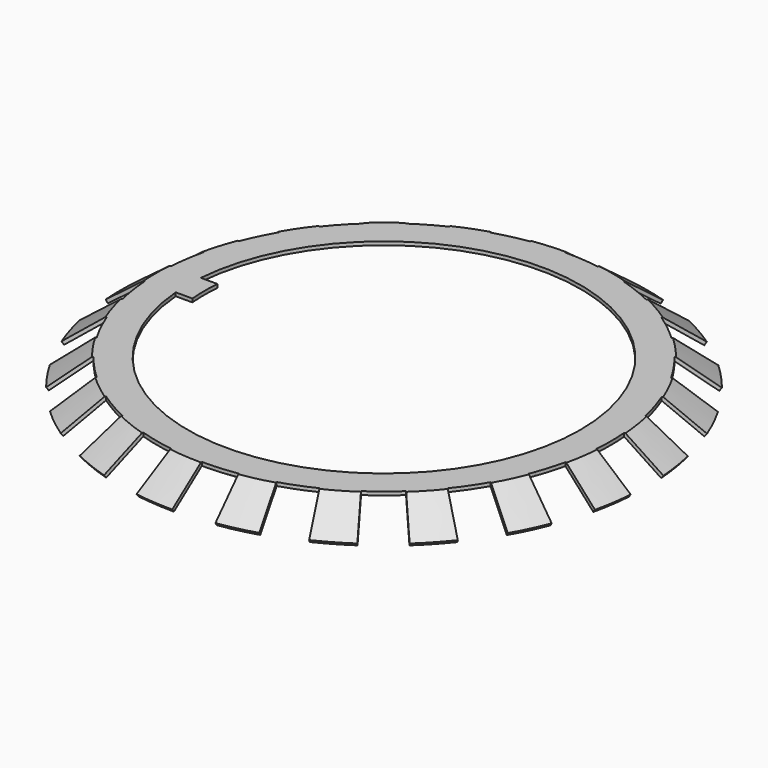
from build123d import *

# Parameters (mm, degrees)
F3_DEPTH = 25
F5_DEPTH = 25


with BuildPart() as f1:
    # F0 (on Front) → F1 (revolve)
    with BuildSketch(Plane.XZ):
        Polygon((-103, 14.996545), (-103, 16.996545), (-130.666475, 16.996545), (-151.202314, 1.600207), (-150.002591, 0), (-130, 14.996545), align=None)
    revolve(axis=Axis((0, 0, 1.729766), (0, 0, -1)))

    # F2 (on Top) → F3 (cut)
    with BuildSketch(Plane.XY):
        with BuildLine():
            Line((-94.21877, -9), (-112.139422, -9))
            ThreePointArc((-112.139422, -9), (112.5, 0), (-112.139422, 9))
            Line((-112.139422, 9), (-94.21877, 9))
            Line((-94.21877, 9), (-94.21877, -9))
        make_face()
    extrude(amount=F3_DEPTH, mode=Mode.SUBTRACT)

    # F4 (on Top) → F5 (cut)
    with BuildSketch(Plane.XY):
        with BuildLine():
            Line((154.534786, 12), (129.60982, 10.064516))
            ThreePointArc((129.60982, 10.064516), (130, 0), (129.60982, -10.064516))
            Line((129.60982, -10.064516), (154.534786, -12))
            Line((154.534786, -12), (154.534786, 12))
        make_face()
        with BuildLine():
            Line((144.132177, 57.016801), (120.885051, 47.820543))
            ThreePointArc((120.885051, 47.820543), (124.224465, 38.318173), (126.818188, 28.585787))
            Line((126.818188, 28.585787), (151.206301, 34.083054))
            Line((151.206301, 34.083054), (144.132177, 57.016801))
        make_face()
        with BuildLine():
            Line((120.922791, 96.96741), (101.419115, 81.327505))
            ThreePointArc((101.419115, 81.327505), (107.411041, 73.231608), (112.758203, 64.696118))
            Line((112.758203, 64.696118), (134.442473, 77.137679))
            Line((134.442473, 77.137679), (120.922791, 96.96741))
        make_face()
        with BuildLine():
            Line((86.968885, 128.302038), (72.941646, 107.608161))
            ThreePointArc((72.941646, 107.608161), (81.053674, 101.638093), (88.679157, 95.057915))
            Line((88.679157, 95.057915), (105.732841, 113.338283))
            Line((105.732841, 113.338283), (86.968885, 128.302038))
        make_face()
        with BuildLine():
            Line((45.287412, 148.236468), (37.982991, 124.32736))
            ThreePointArc((37.982991, 124.32736), (47.494333, 121.013587), (56.720578, 116.973399))
            Line((56.720578, 116.973399), (67.628382, 139.468283))
            Line((67.628382, 139.468283), (45.287412, 148.236468))
        make_face()
        with BuildLine():
            Line((-0.418047, 154.999436), (-0.35062, 129.999527))
            ThreePointArc((-0.35062, 129.999527), (9.714912, 129.636494), (19.722128, 128.495283))
            Line((19.722128, 128.495283), (23.514845, 153.205914))
            Line((23.514845, 153.205914), (-0.418047, 154.999436))
        make_face()
        with BuildLine():
            Line((-46.08636, 147.990025), (-38.653076, 124.120666))
            ThreePointArc((-38.653076, 124.120666), (-28.927721, 126.740629), (-19.028721, 128.599797))
            Line((-19.028721, 128.599797), (-22.68809, 153.330527))
            Line((-22.68809, 153.330527), (-46.08636, 147.990025))
        make_face()
        with BuildLine():
            Line((-87.659698, 127.83105), (-73.521037, 107.213139))
            ThreePointArc((-73.521037, 107.213139), (-65, 112.583302), (-56.088783, 117.277655))
            Line((-56.088783, 117.277655), (-66.875088, 139.83105))
            Line((-66.875088, 139.83105), (-87.659698, 127.83105))
        make_face()
        with BuildLine():
            Line((-121.444087, 96.313726), (-101.856331, 80.779254))
            ThreePointArc((-101.856331, 80.779254), (-95.296743, 88.422456), (-88.165112, 95.534879))
            Line((-88.165112, 95.534879), (-105.119941, 113.906971))
            Line((-105.119941, 113.906971), (-121.444087, 96.313726))
        make_face()
        with BuildLine():
            Line((-144.437636, 56.238504), (-121.141243, 47.167778))
            ThreePointArc((-121.141243, 47.167778), (-117.125953, 56.404886), (-112.407583, 65.303409))
            Line((-112.407583, 65.303409), (-134.024426, 77.861757))
            Line((-134.024426, 77.861757), (-144.437636, 56.238504))
        make_face()
        with BuildLine():
            Line((-154.597267, 11.166245), (-129.662224, 9.365238))
            ThreePointArc((-129.662224, 9.365238), (-128.548007, 19.375495), (-126.662147, 29.269445))
            Line((-126.662147, 29.269445), (-151.020253, 34.898185))
            Line((-151.020253, 34.898185), (-154.597267, 11.166245))
        make_face()
        with BuildLine():
            Line((-151.020253, -34.898185), (-126.662147, -29.269445))
            ThreePointArc((-126.662147, -29.269445), (-128.548007, -19.375495), (-129.662224, -9.365238))
            Line((-129.662224, -9.365238), (-154.597267, -11.166245))
            Line((-154.597267, -11.166245), (-151.020253, -34.898185))
        make_face()
        with BuildLine():
            Line((-134.024426, -77.861757), (-112.407583, -65.303409))
            ThreePointArc((-112.407583, -65.303409), (-117.125953, -56.404886), (-121.141243, -47.167778))
            Line((-121.141243, -47.167778), (-144.437636, -56.238504))
            Line((-144.437636, -56.238504), (-134.024426, -77.861757))
        make_face()
        with BuildLine():
            Line((-105.119941, -113.906971), (-88.165112, -95.534879))
            ThreePointArc((-88.165112, -95.534879), (-95.296743, -88.422456), (-101.856331, -80.779254))
            Line((-101.856331, -80.779254), (-121.444087, -96.313726))
            Line((-121.444087, -96.313726), (-105.119941, -113.906971))
        make_face()
        with BuildLine():
            Line((-66.875088, -139.83105), (-56.088783, -117.277655))
            ThreePointArc((-56.088783, -117.277655), (-65, -112.583302), (-73.521037, -107.213139))
            Line((-73.521037, -107.213139), (-87.659698, -127.83105))
            Line((-87.659698, -127.83105), (-66.875088, -139.83105))
        make_face()
        with BuildLine():
            Line((-22.68809, -153.330527), (-19.028721, -128.599797))
            ThreePointArc((-19.028721, -128.599797), (-28.927721, -126.740629), (-38.653076, -124.120666))
            Line((-38.653076, -124.120666), (-46.08636, -147.990025))
            Line((-46.08636, -147.990025), (-22.68809, -153.330527))
        make_face()
        with BuildLine():
            Line((23.514845, -153.205914), (19.722128, -128.495283))
            ThreePointArc((19.722128, -128.495283), (9.714912, -129.636494), (-0.35062, -129.999527))
            Line((-0.35062, -129.999527), (-0.418047, -154.999436))
            Line((-0.418047, -154.999436), (23.514845, -153.205914))
        make_face()
        with BuildLine():
            Line((67.628382, -139.468283), (56.720578, -116.973399))
            ThreePointArc((56.720578, -116.973399), (47.494333, -121.013587), (37.982991, -124.32736))
            Line((37.982991, -124.32736), (45.287412, -148.236468))
            Line((45.287412, -148.236468), (67.628382, -139.468283))
        make_face()
        with BuildLine():
            Line((105.732841, -113.338283), (88.679157, -95.057915))
            ThreePointArc((88.679157, -95.057915), (81.053674, -101.638093), (72.941646, -107.608161))
            Line((72.941646, -107.608161), (86.968885, -128.302038))
            Line((86.968885, -128.302038), (105.732841, -113.338283))
        make_face()
        with BuildLine():
            Line((134.442473, -77.137679), (112.758203, -64.696118))
            ThreePointArc((112.758203, -64.696118), (107.411041, -73.231608), (101.419115, -81.327505))
            Line((101.419115, -81.327505), (120.922791, -96.96741))
            Line((120.922791, -96.96741), (134.442473, -77.137679))
        make_face()
        with BuildLine():
            Line((151.206301, -34.083054), (126.818188, -28.585787))
            ThreePointArc((126.818188, -28.585787), (124.721919, -36.666644), (122.111305, -44.59629))
            ThreePointArc((122.111305, -44.59629), (121.508873, -46.212484), (120.885051, -47.820543))
            Line((120.885051, -47.820543), (144.132177, -57.016801))
            Line((144.132177, -57.016801), (151.206301, -34.083054))
        make_face()
    extrude(amount=F5_DEPTH, mode=Mode.SUBTRACT)


solid = f1.part
